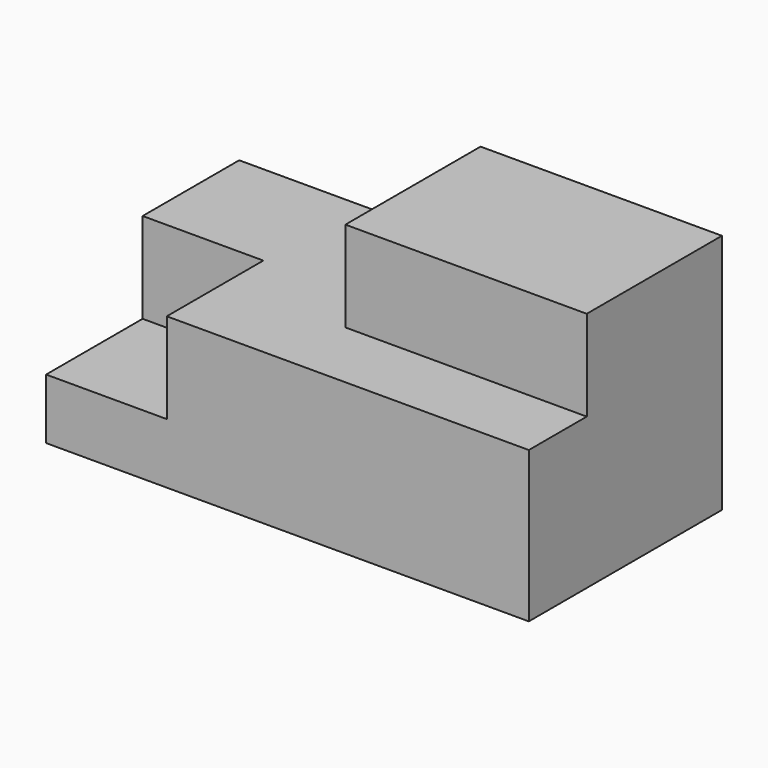
from build123d import *

# Parameters (mm, degrees)
F0_W     = 80
F0_H     = 40
F1_DEPTH = 25
F2_W     = 40
F2_H     = 28
F3_DEPTH = 15
F4_W     = 20
F4_H     = 20
F5_DEPTH = 15


with BuildPart() as f1:
    # F0 (on Top) → F1 (new body)
    with BuildSketch(Plane.XY):
        Rectangle(F0_W, F0_H)
    extrude(amount=F1_DEPTH)

    # F2 (on face) → F3 (join)
    with BuildSketch(Plane.XY.offset(25)):
        with Locations((20, 6)):
            Rectangle(F2_W, F2_H)
    extrude(amount=F3_DEPTH)

    # F4 (on face) → F5 (cut)
    with BuildSketch(Plane.XY.offset(25)):
        with Locations((-30, -10)):
            Rectangle(F4_W, F4_H)
    extrude(amount=-F5_DEPTH, mode=Mode.SUBTRACT)


solid = f1.part
